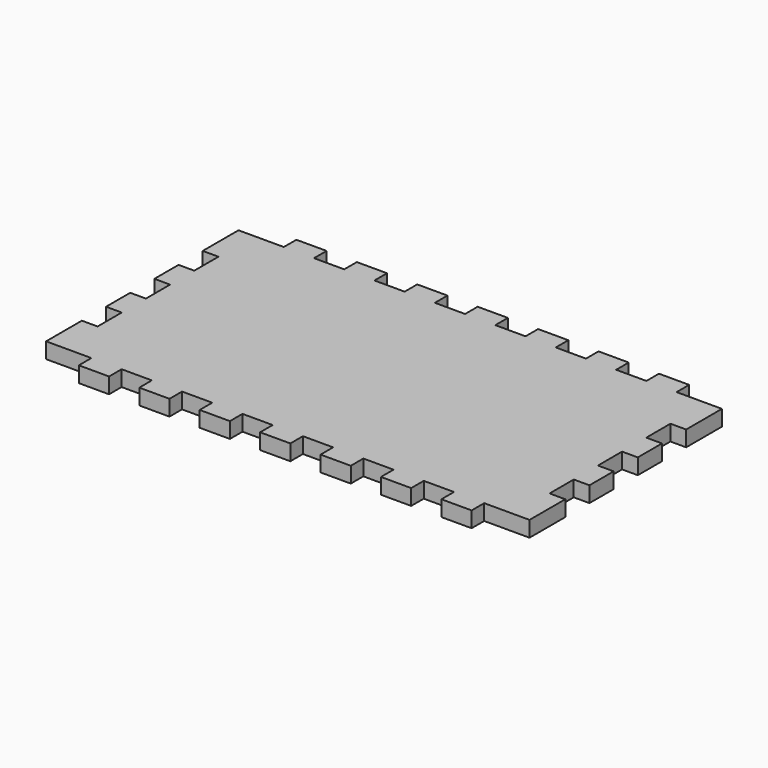
from build123d import *

# Parameters (mm, degrees)
F1_DEPTH = 6.604


with BuildPart() as f1:
    # F0 (on Top) → F1 (new body)
    with BuildSketch(Plane.XY):
        Polygon((31.75, 0), (19.05, 0), (19.05, -6.604), (0, -6.604), (0, -25.4), (6.604, -25.4), (6.604, -38.1), (0, -38.1), (0, -50.8), (6.604, -50.8), (6.604, -63.5), (0, -63.5), (0, -76.2), (6.604, -76.2), (6.604, -88.9), (0, -88.9), (0, -107.696), (19.05, -107.696), (19.05, -114.3), (31.75, -114.3), (31.75, -107.696), (44.45, -107.696), (44.45, -114.3), (57.15, -114.3), (57.15, -107.696), (69.85, -107.696), (69.85, -114.3), (82.55, -114.3), (82.55, -107.696), (95.25, -107.696), (95.25, -114.3), (107.95, -114.3), (107.95, -107.696), (120.65, -107.696), (120.65, -114.3), (133.35, -114.3), (133.35, -107.696), (146.05, -107.696), (146.05, -114.3), (158.75, -114.3), (158.75, -107.696), (171.45, -107.696), (171.45, -114.3), (184.15, -114.3), (184.15, -107.696), (203.2, -107.696), (203.2, -88.9), (196.596, -88.9), (196.596, -76.2), (203.2, -76.2), (203.2, -63.5), (196.596, -63.5), (196.596, -50.8), (203.2, -50.8), (203.2, -38.1), (196.596, -38.1), (196.596, -25.4), (203.2, -25.4), (203.2, -6.604), (184.15, -6.604), (184.15, 0), (171.45, 0), (171.45, -6.604), (158.75, -6.604), (158.75, 0), (146.05, 0), (146.05, -6.604), (133.35, -6.604), (133.35, 0), (120.65, 0), (120.65, -6.604), (107.95, -6.604), (107.95, 0), (95.25, 0), (95.25, -6.604), (82.55, -6.604), (82.55, 0), (69.85, 0), (69.85, -6.604), (57.15, -6.604), (57.15, 0), (44.45, 0), (44.45, -6.604), (31.75, -6.604), align=None)
    extrude(amount=F1_DEPTH)


solid = f1.part
